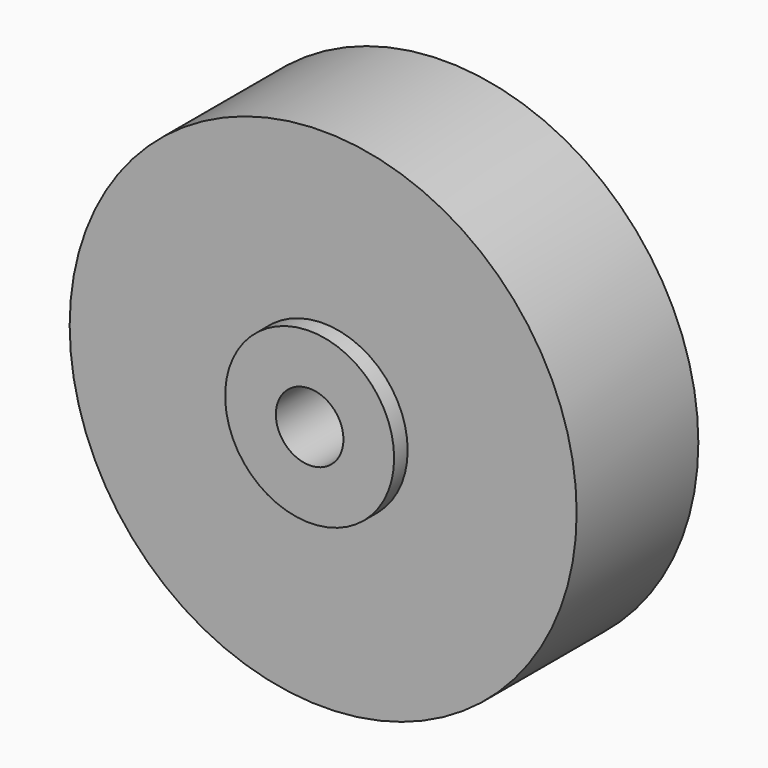
from build123d import *

# Parameters (mm, degrees)
SKETCH_R      = 15
SKETCH_R_2    = 2
PAD_DEPTH     = 9
SKETCH001_R   = 5
SKETCH001_R_2 = 2
PAD001_DEPTH  = 1


with BuildPart() as pad:
    # Sketch → Pad (new body)
    with BuildSketch(Plane.XZ):
        Circle(SKETCH_R)
        Circle(SKETCH_R_2, mode=Mode.SUBTRACT)
    extrude(amount=PAD_DEPTH)


with BuildPart() as fusion:
    # Pad001 base: copy of Pad
    add(pad.part)

    # Sketch001 → Pad001 (new body)
    with BuildSketch(Plane.XZ.offset(9)):
        Circle(SKETCH001_R)
        Circle(SKETCH001_R_2, mode=Mode.SUBTRACT)
    extrude(amount=PAD001_DEPTH)

    # Fusion: union Pad
    add(pad.part)


solid = fusion.part
